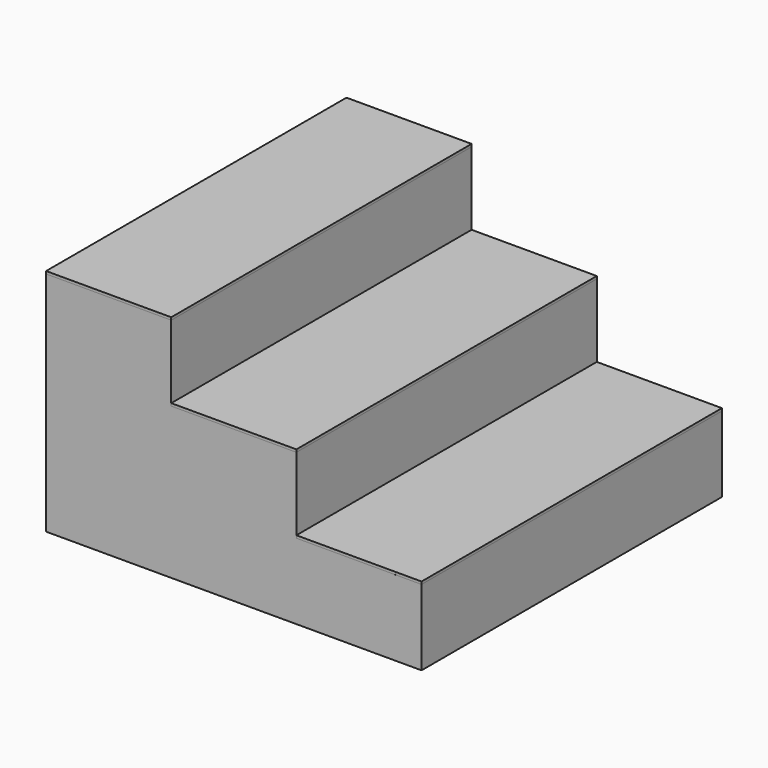
from build123d import *

# Parameters (mm, degrees)
F0_W     = 304.8
F0_H     = 914.4
F3_DEPTH = 552.45
F4_DEPTH = 368.3
F5_DEPTH = 184.15
F6_DEPTH = 6.35


with BuildPart() as f3:
    # F0 (on Top) → F3 (new body)
    with BuildSketch(Plane.XY):
        with Locations((152.4, -457.2)):
            Rectangle(F0_W, F0_H)
    extrude(amount=F3_DEPTH)

    # F0 (on Top) → F4 (join)
    with BuildSketch(Plane.XY):
        with Locations((457.2, -457.2)):
            Rectangle(F0_W, F0_H)
    extrude(amount=F4_DEPTH)

    # F0 (on Top) → F5 (join)
    with BuildSketch(Plane.XY):
        with Locations((762, -457.2)):
            Rectangle(F0_W, F0_H)
    extrude(amount=F5_DEPTH)


with BuildPart() as f6:
    # F6 (new): a face of the model
    f6_faces = [f3.part.faces().sort_by_distance(p)[0] for p in [
        (152.4, -457.2, 552.45),
    ]]
    extrude(f6_faces, amount=F6_DEPTH)


with BuildPart() as f6b:
    # F6#2 (new): a face of the model
    f6_2_faces = [f3.part.faces().sort_by_distance(p)[0] for p in [
        (457.2, -457.2, 368.3),
    ]]
    extrude(f6_2_faces, amount=F6_DEPTH)


with BuildPart() as f6c:
    # F6#3 (new): a face of the model
    f6_3_faces = [f3.part.faces().sort_by_distance(p)[0] for p in [
        (762, -457.2, 184.15),
    ]]
    extrude(f6_3_faces, amount=F6_DEPTH)


solid = Compound([f3.part, f6.part, f6b.part, f6c.part])
